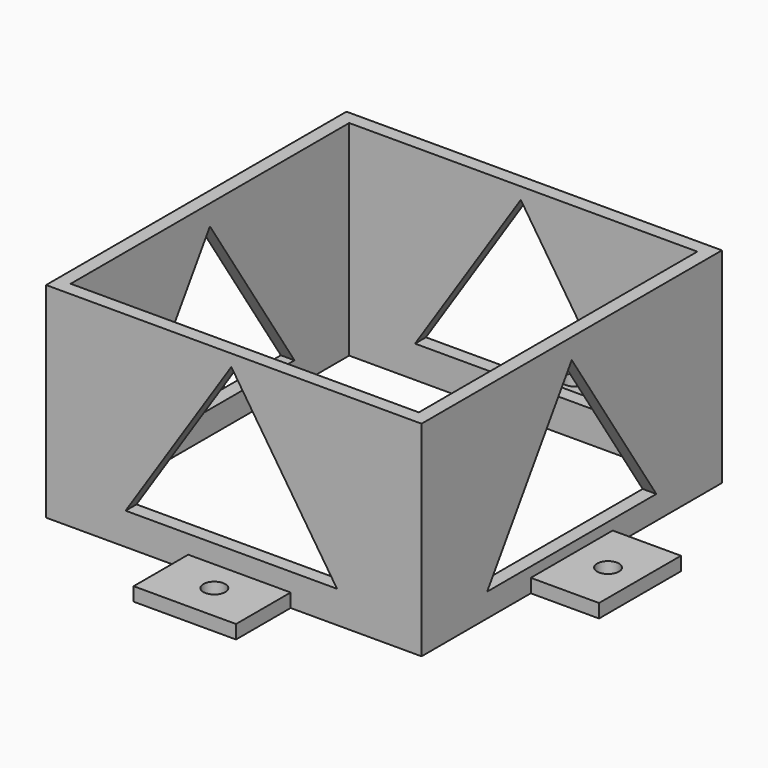
from build123d import *

# Parameters (mm, degrees)
F0_W     = 51
F0_H     = 51
F1_DEPTH = 30
F0_W_2   = 15
F0_H_2   = 10
F0_R     = 1.6
F0_W_3   = 10
F0_H_3   = 15
F2_DEPTH = 2
F4_DEPTH = 100
F6_DEPTH = 100


with BuildPart() as f1:
    # F0 (on Top) → F1 (new body)
    with BuildSketch(Plane.XY):
        Polygon((-7.5, 27.5), (-28.323529, 27.5), (-28.323529, 7.5), (-28.323529, -7.5), (-28.323529, -27.5), (-7.5, -27.5), (7.5, -27.5), (26.676471, -27.5), (26.676471, -7.5), (26.676471, 7.5), (26.676471, 27.5), (7.5, 27.5), align=None)
        with Locations((-0.823529, 0)):
            Rectangle(F0_W, F0_H, mode=Mode.SUBTRACT)
    extrude(amount=F1_DEPTH)

    # F0 (on Top) → F2 (join)
    with BuildSketch(Plane.XY):
        with Locations((0, 32.5)):
            Rectangle(F0_W_2, F0_H_2)
        with Locations((0, 33.877362)):
            Circle(F0_R, mode=Mode.SUBTRACT)
        with Locations((31.676471, 0)):
            Rectangle(F0_W_3, F0_H_3)
        with Locations((31.995282, 0)):
            Circle(F0_R, mode=Mode.SUBTRACT)
        with Locations((0, -32.5)):
            Rectangle(F0_W_2, F0_H_2)
        with Locations((0, -32.094341)):
            Circle(F0_R, mode=Mode.SUBTRACT)
        with Locations((-33.323529, 0)):
            Rectangle(F0_W_3, F0_H_3)
        with Locations((-33.580191, 0)):
            Circle(F0_R, mode=Mode.SUBTRACT)
    extrude(amount=F2_DEPTH)

    # F3 (on face) → F4 (cut)
    with BuildSketch(Plane.YZ.offset(26.676471)):
        Polygon((15.488846, 3.462488), (0, 27.03796), (-15.488846, 3.462488), align=None)
    extrude(amount=-F4_DEPTH, mode=Mode.SUBTRACT)

    # F5 (on face) → F6 (cut)
    with BuildSketch(Plane.XZ.offset(27.5)):
        Polygon((14.299098, 4.686049), (-1.189748, 28.261521), (-16.678594, 4.686049), align=None)
    extrude(amount=-F6_DEPTH, mode=Mode.SUBTRACT)


solid = f1.part
